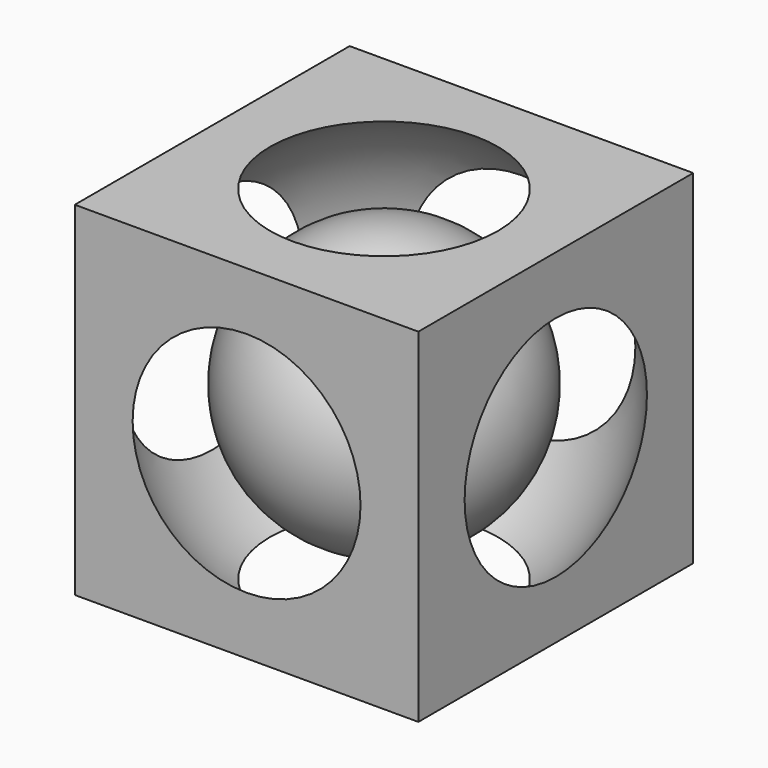
from build123d import *

# Parameters (mm, degrees)
BOX_W     = 30
BOX_H     = 30
BOX_DEPTH = 30


with BuildPart() as esfera001:
    # Sphere001 → Sphere001 (revolve)
    with BuildSketch(Plane(origin=(15, 15, 15), x_dir=(1, 0, 0), z_dir=(0, -1, 0))):
        with BuildLine():
            ThreePointArc((0, -12), (12, 0), (0, 12))
            Line((0, 12), (0, -12))
        make_face()
    revolve(axis=Axis((15, 15, 15), (0, 0, 1)))


with BuildPart() as esfera:
    # Sphere → Sphere (revolve)
    with BuildSketch(Plane(origin=(15, 15, 15), x_dir=(1, 0, 0), z_dir=(0, -1, 0))):
        with BuildLine():
            ThreePointArc((0, -18), (18, 0), (0, 18))
            Line((0, 18), (0, -18))
        make_face()
    revolve(axis=Axis((15, 15, 15), (0, 0, 1)))


with BuildPart() as fusion:
    # Box → Box (new body)
    with BuildSketch(Plane.XY):
        with Locations((15, 15)):
            Rectangle(BOX_W, BOX_H)
    extrude(amount=BOX_DEPTH)

    # Cut: cut Esfera
    add(esfera.part, mode=Mode.SUBTRACT)

    # Fusion: union Esfera001
    add(esfera001.part)


solid = fusion.part
